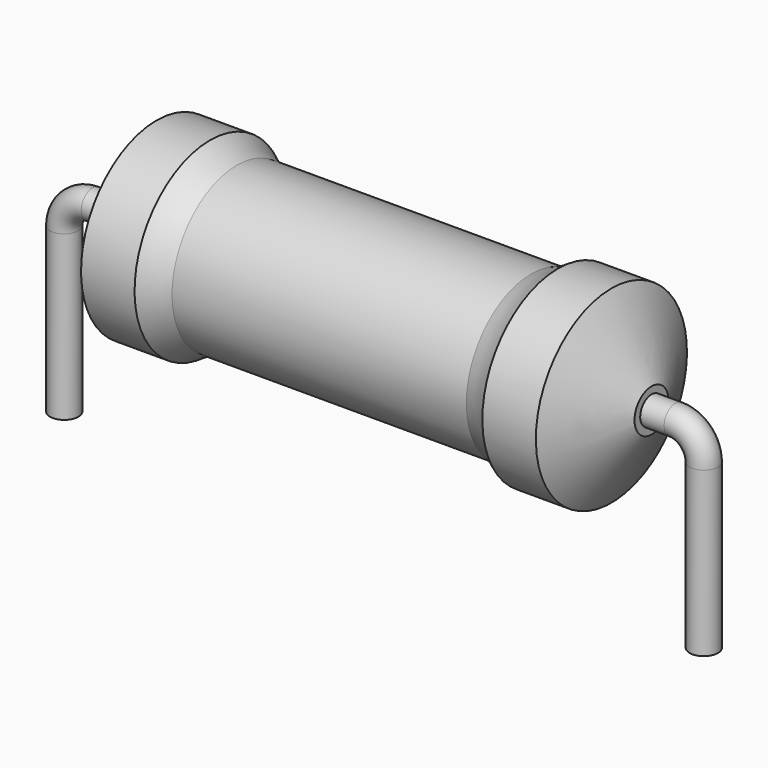
from build123d import *

# Parameters (mm, degrees)
SKETCH_R = 0.45


with BuildPart() as revolution:
    # Sketch002 → Revolution (revolve)
    with BuildSketch(Plane.XZ):
        with BuildLine():
            Line((2.935, 6.1), (4.635, 6.1))
            ThreePointArc((4.635, 6.1), (5.042413, 5.852326), (5.485, 5.675))
            Line((5.485, 5.675), (14.835, 5.675))
            ThreePointArc((14.835, 5.675), (15.277587, 5.852326), (15.685, 6.1))
            Line((15.685, 6.1), (17.385, 6.1))
            ThreePointArc((18.66, 3.775), (18.026288, 4.939577), (17.385, 6.1))
            Line((18.66, 3.1), (18.66, 3.775))
            Line((1.66, 3.1), (18.66, 3.1))
            Line((1.66, 3.1), (1.66, 3.775))
            ThreePointArc((2.935, 6.1), (2.293712, 4.939577), (1.66, 3.775))
        make_face()
    revolve(axis=Axis((1.66, 0, 3.1), (1, 0, 0)))


with BuildPart() as sweep_body:
    # Sweep: sweep along a path in Sketch001
    with BuildLine(Plane.XZ) as sweep_path:
        Line((0, -3), (0, 2.2))
        ThreePointArc((0, 2.2), (0.2636, 2.836393), (0.89999, 3.1))
        Line((0.89999, 3.1), (19.42, 3.1))
        ThreePointArc((19.42, 3.1), (20.056396, 2.836396), (20.32, 2.2))
        Line((20.32, 2.2), (20.32, -3))
    # Sketch → Sweep (sweep)
    with BuildSketch(Plane.XY.offset(-2)):
        Circle(SKETCH_R)
    sweep(path=sweep_path.line)


solid = Compound([revolution.part, sweep_body.part])
